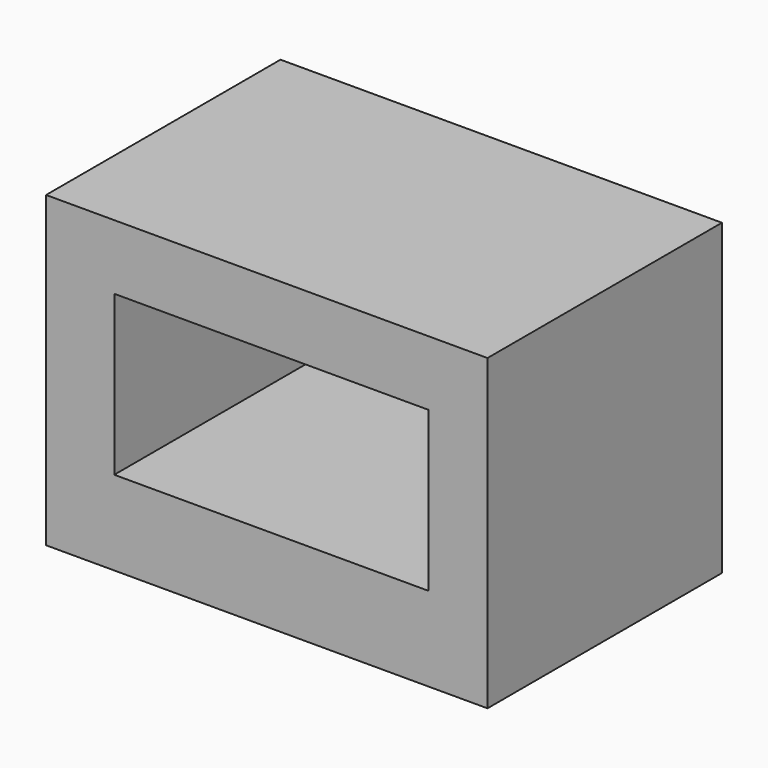
from build123d import *

# Parameters (mm, degrees)
F0_W     = 76.5245743096
F0_H     = 53.4645225853
F0_W_2   = 54.4477272779
F0_H_2   = 5.311973393
F0_H_3   = 5.5775716901
F1_DEPTH = 50.8
F2_W     = 54.4477272779
F2_H     = 2.6621837169
F3_DEPTH = 30.6


with BuildPart() as f1:
    # F0 (on Front) → F1 (new body)
    with BuildSketch(Plane.XZ):
        with Locations((0.4114229232, -2.8822431341)):
            Rectangle(F0_W, F0_H)
        Polygon((-26.0286685079, 12.615935877), (-26.0286685079, 17.9279092699), (28.4190587699, 17.9279092699), (28.4190587699, 12.615935877), (28.4190587699, -15.0063242763), (28.4190587699, -20.5838959664), (-26.0286685079, -20.5838959664), (-26.0286685079, -15.0063242763), align=None, mode=Mode.SUBTRACT)
        with Locations((1.195195131, 15.2719225734)):
            Rectangle(F0_W_2, F0_H_2)
        with Locations((1.195195131, -17.7951101214)):
            Rectangle(F0_W_2, F0_H_3)
    extrude(amount=F1_DEPTH)

    # F2 (on face) → F3 (join)
    with BuildSketch(Plane(origin=(0, 0, 12.615935877), x_dir=(1, 0, 0), z_dir=(0, 0, -1))):
        with Locations((1.195195131, 1.3310918584)):
            Rectangle(F2_W, F2_H)
    extrude(amount=F3_DEPTH)


solid = f1.part
